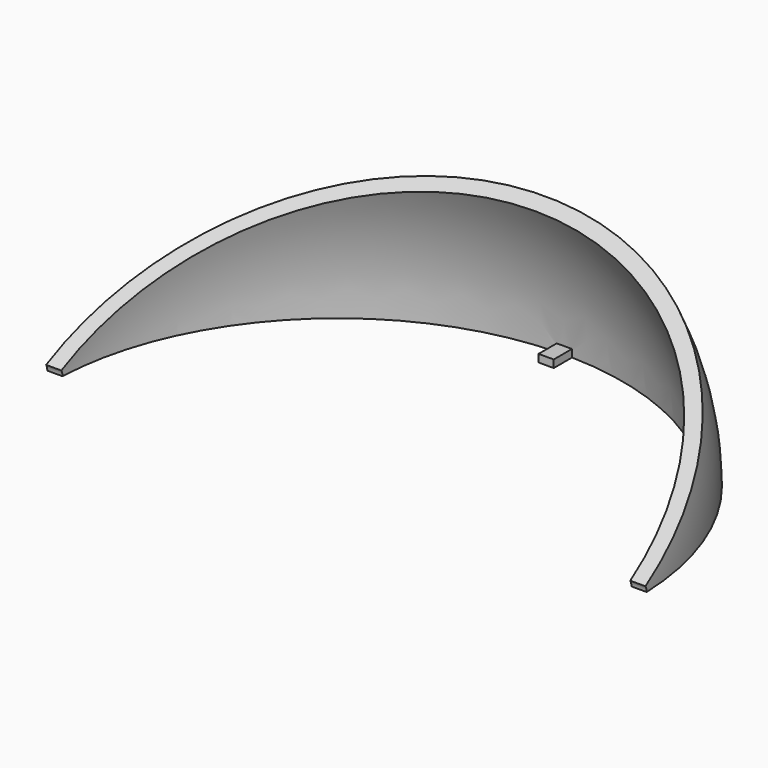
from build123d import *

# Parameters (mm, degrees)
F1_ANGLE      = 30
F2_R          = 3.81
F3_DEPTH      = 100.331
F3_DEPTH_BACK = 100.331
F4_W          = 5.08
F4_H          = 15.24
F5_DEPTH      = 2.54


with BuildPart() as f1:
    # F0 (on Top) → F1 (revolve)
    with BuildSketch(Plane.XY):
        with BuildLine():
            Line((-100.33, 0), (-95.25, 0))
            ThreePointArc((-95.25, 0), (0, 95.25), (95.25, 0))
            Line((95.25, 0), (100.33, 0))
            ThreePointArc((100.33, 0), (0, 100.33), (-100.33, 0))
        make_face()
    revolve(axis=Axis((-47.625, 0, 0), (1, 0, 0)), revolution_arc=F1_ANGLE)

    # F2 (on Right) → F3 (cut, two sides)
    with BuildSketch(Plane.YZ) as f3_sk:
        Circle(F2_R)
    extrude(amount=-F3_DEPTH, mode=Mode.SUBTRACT)
    extrude(f3_sk.sketch, amount=F3_DEPTH_BACK, mode=Mode.SUBTRACT)

    # F4 (on Top) → F5 (join)
    with BuildSketch(Plane.XY):
        with Locations((-0.3907692308, 95.2049005657)):
            Rectangle(F4_W, F4_H)
    extrude(amount=F5_DEPTH)


solid = f1.part
